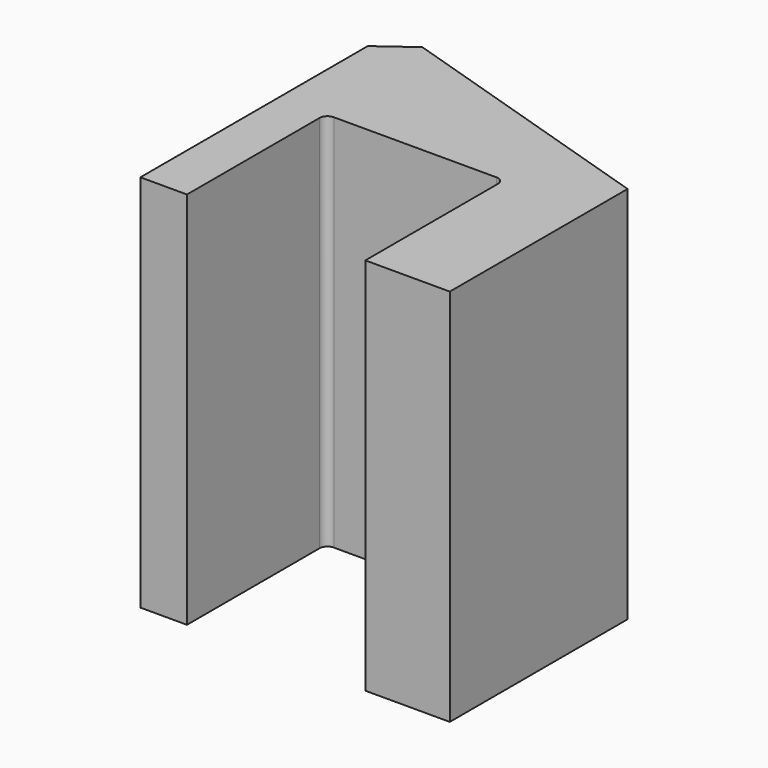
from build123d import *

# Parameters (mm, degrees)
F1_DEPTH = 120


with BuildPart() as f1:
    # F0 (on Top) → F1 (new body)
    with BuildSketch(Plane.XY):
        with BuildLine():
            Line((0, 90), (0, 0))
            Line((0, 0), (14.75, 0))
            Line((14.75, 0), (14.75, 52.5))
            ThreePointArc((14.75, 52.5), (15.482233, 54.267767), (17.25, 55))
            Line((17.25, 55), (68.75, 55))
            ThreePointArc((68.75, 55), (70.517767, 54.267767), (71.25, 52.5))
            Line((71.25, 52.5), (71.25, 0))
            Line((71.25, 0), (98, 0))
            Line((98, 0), (98, 70.4))
            Line((98, 70.4), (10.90217, 98))
            Line((10.90217, 98), (0, 90))
        make_face()
    extrude(amount=F1_DEPTH)


solid = f1.part
